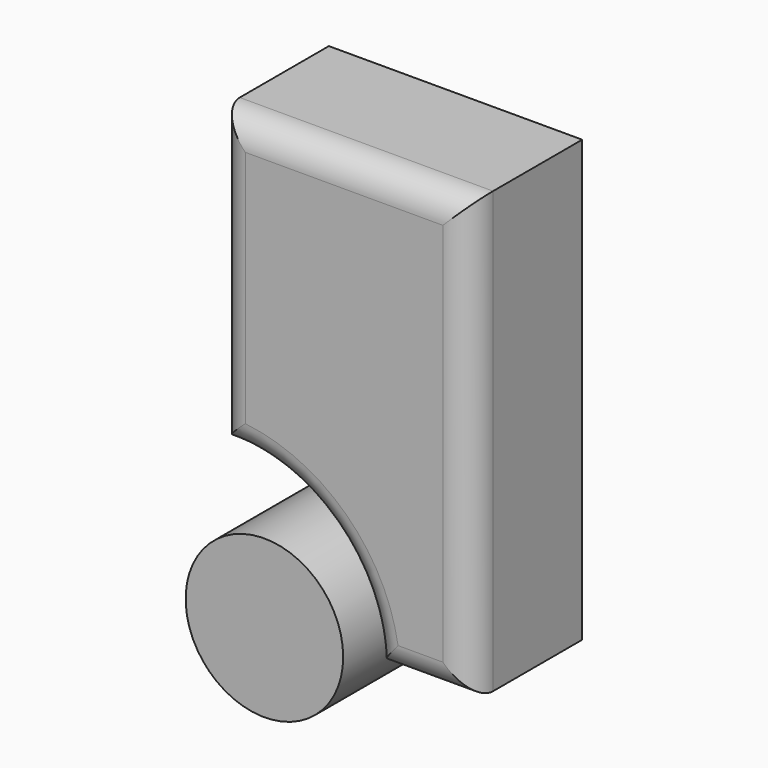
from build123d import *

# Parameters (mm, degrees)
F0_R     = 14.363391
F1_DEPTH = 25.4
F2_R     = 5.08


with BuildPart() as f1:
    # F0 (on Front) → F1 (new body)
    with BuildSketch(Plane.XZ):
        with BuildLine():
            Line((21.981793, 45.174446), (-24.217229, 45.174446))
            Line((-24.217229, 45.174446), (-24.217229, -8.377207))
            ThreePointArc((-24.217229, -8.377207), (-4.325571, -15.659411), (4.052336, -35.114981))
            Line((4.052336, -35.114981), (21.981793, -35.114981))
            Line((21.981793, -35.114981), (21.981793, 45.174446))
        make_face()
        with Locations((-15.648056, -35.114981)):
            Circle(F0_R)
    extrude(amount=F1_DEPTH)

    # F2
    f2_edges = [f1.edges().sort_by_distance(p)[0] for p in [
        (-24.217229, -25.4, 18.39862),
        (-4.325571, -25.4, -15.659411),
        (13.017064, -25.4, -35.114981),
        (21.981793, -25.4, 5.029732),
        (-1.117718, -25.4, 45.174446),
    ]]
    fillet(f2_edges, radius=F2_R)


solid = f1.part
